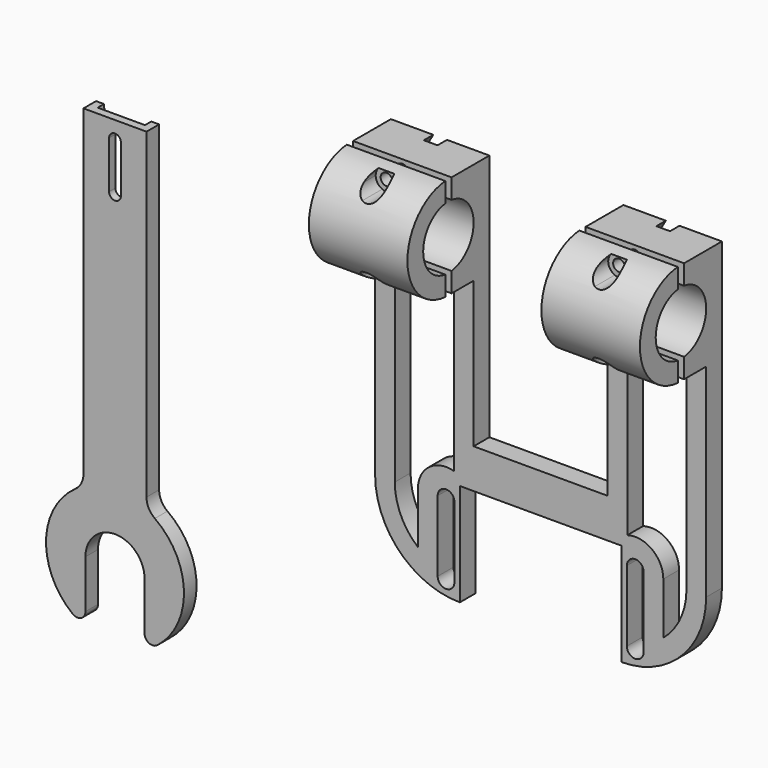
from build123d import *

# Parameters (mm, degrees)
F1_DEPTH  = 25
F2_R      = 1.5
F3_DEPTH  = 26.0009997765
F4_DEPTH  = 3
F6_START  = -3
F5_R      = 1.5
F5_R_2    = 2.75
F6_DEPTH  = 9.0009999882
F11_DEPTH = 5
F13_DEPTH = 2
F14_DEPTH = 2
F15_R     = 2


with BuildPart() as f1:
    # F0 (on Right) → F1 (new body)
    with BuildSketch(Plane.YZ):
        with BuildLine():
            Line((-1, 7.9372539332), (-1, 12.9614812847))
            ThreePointArc((-1, 12.9614812847), (-12.9999998882, 0), (-1, -12.9614812847))
            Line((-1, -12.9614812847), (-1, -7.9372539332))
            ThreePointArc((-1, -7.9372539332), (-8, 0), (-1, 7.9372539332))
        make_face()
    extrude(amount=F1_DEPTH)


with BuildPart() as f1b:
    # F0 (on Right) → F1, piece 2 (new body)
    with BuildSketch(Plane.YZ):
        with BuildLine():
            ThreePointArc((1, 7.9372539332), (8, 0), (1, -7.9372539332))
            Line((1, -7.9372539332), (1, -12.9614812847))
            Line((1, -12.9614812847), (12.9999998882, -12.9614812847))
            Line((12.9999998882, -12.9614812847), (12.9999998882, 12.9614812847))
            Line((12.9999998882, 12.9614812847), (1, 12.9614812847))
            Line((1, 12.9614812847), (1, 7.9372539332))
        make_face()
    extrude(amount=F1_DEPTH)


with BuildPart() as f3_tool:
    # F2 (on face) → F3 (new body, through all)
    with BuildSketch(Plane(origin=(0, 12.9999998882, 0), x_dir=(-1, 0, 0), z_dir=(0, 1, 0))):
        with Locations((-12.5, 10.4614812847)):
            Circle(F2_R)
        with Locations((-12.5, -10.4614812847)):
            Circle(F2_R)
    extrude(amount=-F3_DEPTH)


with BuildPart() as f1_1:
    add(f1.part)

    # F3: cut by f3_tool
    add(f3_tool.part, mode=Mode.SUBTRACT)

    # F5 (on face) → F6 (cut)
    with BuildSketch(Plane(origin=(0, -1, 0), x_dir=(-1, 0, 0), z_dir=(0, 1, 0)).offset(F6_START)):
        with BuildLine():
            ThreePointArc((-11.4087730402, 7.9372539332), (-10.2018078693, 8.9512452335), (-9.75, 10.4614812847))
            ThreePointArc((-9.75, 10.4614812847), (-10.185586382, 11.9467387051), (-11.3543560763, 12.9614812847))
            Line((-11.3543560763, 12.9614812847), (-13.6456439237, 12.9614812847))
            ThreePointArc((-13.6456439237, 12.9614812847), (-15.2498387148, 10.4316980238), (-13.5912269598, 7.9372539332))
            Line((-13.5912269598, 7.9372539332), (-11.4087730402, 7.9372539332))
        make_face()
        with Locations((-12.5, 10.4614812847)):
            Circle(F5_R, mode=Mode.SUBTRACT)
        with Locations((-12.5, -10.4614812847)):
            Circle(F5_R_2)
        with BuildLine():
            ThreePointArc((-13.5912269598, 7.9372539332), (-12.5, 7.7114812847), (-11.4087730402, 7.9372539332))
            Line((-11.4087730402, 7.9372539332), (-13.5912269598, 7.9372539332))
        make_face()
    extrude(amount=-F6_DEPTH, mode=Mode.SUBTRACT)


with BuildPart() as f1b_1:
    add(f1b.part)

    # F3: cut by f3_tool
    add(f3_tool.part, mode=Mode.SUBTRACT)

    # F2 (on face) → F4 (cut)
    with BuildSketch(Plane(origin=(0, 12.9999998882, 0), x_dir=(-1, 0, 0), z_dir=(0, 1, 0))):
        Polygon((-14.0877132403, 7.7114812847), (-10.9122867597, 7.7114812847), (-9.3245735195, 10.4614812847), (-10.9122867597, 13.2114812847), (-14.0877132403, 13.2114812847), (-15.6754264805, 10.4614812847), align=None)
        with Locations((-12.5, 10.4614812847)):
            Circle(F2_R, mode=Mode.SUBTRACT)
        Polygon((-9.3245735195, -10.4614812847), (-10.9122867597, -7.7114812847), (-14.0877132403, -7.7114812847), (-15.6754264805, -10.4614812847), (-14.0877132403, -13.2114812847), (-10.9122867597, -13.2114812847), align=None)
        with Locations((-12.5, -10.4614812847)):
            Circle(F2_R, mode=Mode.SUBTRACT)
    extrude(amount=-F4_DEPTH, mode=Mode.SUBTRACT)


with BuildPart() as f9_1:
    # F9: instance of F1
    add(f1_1.part.mirror(Plane.YZ.offset(42)))


with BuildPart() as f9_2:
    # F9: instance of F1b
    add(f1b_1.part.mirror(Plane.YZ.offset(42)))


with BuildPart() as f1b_2:
    add(f1b_1.part)

    add(f9_2.part)  # F11 merges F9_2
    # F10 (on face) → F11 (join)
    with BuildSketch(Plane(origin=(0, 12.9999998882, 0), x_dir=(-1, 0, 0), z_dir=(0, 1, 0))):
        with BuildLine():
            Line((-20.0000001118, -12.9614812847), (-25, -12.9614812847))
            Line((-25, -12.9614812847), (-25, -49.9614812847))
            Line((-25, -49.9614812847), (-59, -49.9614812847))
            Line((-59, -49.9614812847), (-59, -12.9614812847))
            Line((-59, -12.9614812847), (-63.9999998882, -12.9614812847))
            Line((-63.9999998882, -12.9614812847), (-63.9999998882, -17.961481173))
            Line((-63.9999998882, -17.961481173), (-63.9999998882, -49.9614812847))
            Line((-63.9999998882, -49.9614812847), (-63.9999998882, -57.1229417506))
            ThreePointArc((-63.9999998882, -57.1229417506), (-70.2729160321, -58.2599190435), (-73.1249998882, -63.9614812847))
            Line((-73.1249998882, -63.9614812847), (-73.1249998882, -77.0852438404))
            ThreePointArc((-73.1249998882, -77.0852438404), (-77.4593198881, -71.4234315986), (-79.0000001118, -64.4614812847))
            Line((-79.0000001118, -64.4614812847), (-79.0000001118, -17.961481173))
            Line((-79.0000001118, -17.961481173), (-79.0000001118, -12.9614812847))
            Line((-79.0000001118, -12.9614812847), (-84, -12.9614812847))
            Line((-84, -12.9614812847), (-84, -64.4614812847))
            ThreePointArc((-84, -64.4614812847), (-77.7027957955, -79.6642770802), (-62.5, -85.9614812847))
            Line((-62.5, -85.9614812847), (-62.5, -59.9614812847))
            Line((-62.5, -59.9614812847), (-21.5, -59.9614812847))
            Line((-21.5, -59.9614812847), (-21.5, -85.9614812847))
            ThreePointArc((-21.5, -85.9614812847), (-6.2972042045, -79.6642770802), (0, -64.4614812847))
            Line((0, -64.4614812847), (0, -12.9614812847))
            Line((0, -12.9614812847), (-4.9999998882, -12.9614812847))
            Line((-4.9999998882, -12.9614812847), (-4.9999998882, -17.961481173))
            Line((-4.9999998882, -17.961481173), (-4.9999998882, -64.4614812847))
            ThreePointArc((-4.9999998882, -64.4614812847), (-6.5406801119, -71.4234315986), (-10.8750001118, -77.0852438404))
            Line((-10.8750001118, -77.0852438404), (-10.8750001118, -63.9614812847))
            ThreePointArc((-10.8750001118, -63.9614812847), (-13.7270839679, -58.2599190435), (-20.0000001118, -57.1229417506))
            Line((-20.0000001118, -57.1229417506), (-20.0000001118, -49.9614812847))
            Line((-20.0000001118, -49.9614812847), (-20.0000001118, -17.961481173))
            Line((-20.0000001118, -17.961481173), (-20.0000001118, -12.9614812847))
        make_face()
        with BuildLine():
            ThreePointArc((-68.125, -63.9614812847), (-66, -61.8364812847), (-63.875, -63.9614812847))
            Line((-63.875, -63.9614812847), (-63.875, -81.9614812847))
            ThreePointArc((-63.875, -81.9614812847), (-66, -84.0864812847), (-68.125, -81.9614812847))
            Line((-68.125, -81.9614812847), (-68.125, -63.9614812847))
        make_face(mode=Mode.SUBTRACT)
        with BuildLine():
            Line((-20.125, -81.9614812847), (-20.125, -63.9614812847))
            ThreePointArc((-20.125, -63.9614812847), (-18, -61.8364812847), (-15.875, -63.9614812847))
            Line((-15.875, -63.9614812847), (-15.875, -81.9614812847))
            ThreePointArc((-15.875, -81.9614812847), (-18, -84.0864812847), (-20.125, -81.9614812847))
        make_face(mode=Mode.SUBTRACT)
    extrude(amount=-F11_DEPTH)


with BuildPart() as f13:
    # F12 (on Front) → F13 (new body)
    with BuildSketch(Plane.XZ):
        with BuildLine():
            Line((-64, 0), (-66, 0))
            Line((-66, 0), (-66, -81.6356323278))
            ThreePointArc((-66, -81.6356323278), (-66.5590291352, -83.9329737865), (-68.1111111111, -85.7166029216))
            ThreePointArc((-68.1111111111, -85.7166029216), (-75.4345012948, -101.5126680411), (-65.5, -115.8113883008))
            Line((-65.5, -115.8113883008), (-65.5, -100))
            ThreePointArc((-65.5, -100), (-58, -92.5), (-50.5, -100))
            Line((-50.5, -100), (-50.5, -115.8113883008))
            ThreePointArc((-50.5, -115.8113883008), (-40.5654987052, -101.5126680411), (-47.8888888889, -85.7166029216))
            ThreePointArc((-47.8888888889, -85.7166029216), (-49.4409708648, -83.9329737865), (-50, -81.6356323278))
            Line((-50, -81.6356323278), (-50, 0))
            Line((-50, 0), (-52, 0))
            Line((-52, 0), (-53.75, -20))
            ThreePointArc((-53.75, -20), (-58, -23.894363509), (-62.25, -20))
            Line((-62.25, -20), (-64, 0))
        make_face()
    extrude(amount=-F13_DEPTH)

    # F12 (on Front) → F14 (join)
    with BuildSketch(Plane.XZ):
        with BuildLine():
            Line((-64, 0), (-66, 0))
            Line((-66, 0), (-66, -81.6356323278))
            ThreePointArc((-66, -81.6356323278), (-66.5590291352, -83.9329737865), (-68.1111111111, -85.7166029216))
            ThreePointArc((-68.1111111111, -85.7166029216), (-75.4345012948, -101.5126680411), (-65.5, -115.8113883008))
            Line((-65.5, -115.8113883008), (-65.5, -100))
            ThreePointArc((-65.5, -100), (-58, -92.5), (-50.5, -100))
            Line((-50.5, -100), (-50.5, -115.8113883008))
            ThreePointArc((-50.5, -115.8113883008), (-40.5654987052, -101.5126680411), (-47.8888888889, -85.7166029216))
            ThreePointArc((-47.8888888889, -85.7166029216), (-49.4409708648, -83.9329737865), (-50, -81.6356323278))
            Line((-50, -81.6356323278), (-50, 0))
            Line((-50, 0), (-52, 0))
            Line((-52, 0), (-53.75, -20))
            ThreePointArc((-53.75, -20), (-58, -23.894363509), (-62.25, -20))
            Line((-62.25, -20), (-64, 0))
        make_face()
        with BuildLine():
            Line((-52, 0), (-64, 0))
            Line((-64, 0), (-62.25, -20))
            ThreePointArc((-62.25, -20), (-58, -23.894363509), (-53.75, -20))
            Line((-53.75, -20), (-52, 0))
        make_face()
        with BuildLine():
            ThreePointArc((-59.5, -4.5), (-58, -3), (-56.5, -4.5))
            Line((-56.5, -4.5), (-56.5, -16.5))
            ThreePointArc((-56.5, -16.5), (-58, -18), (-59.5, -16.5))
            Line((-59.5, -16.5), (-59.5, -4.5))
        make_face(mode=Mode.SUBTRACT)
    extrude(amount=F14_DEPTH)

    # F15
    f15_edges = [f13.edges().sort_by_distance(p)[0] for p in [
        (-65.5, 0, -115.811388),
        (-50.5, 0, -115.811388),
    ]]
    fillet(f15_edges, radius=F15_R)


solid = Compound([f1_1.part, f9_1.part, f1b_2.part, f13.part])
